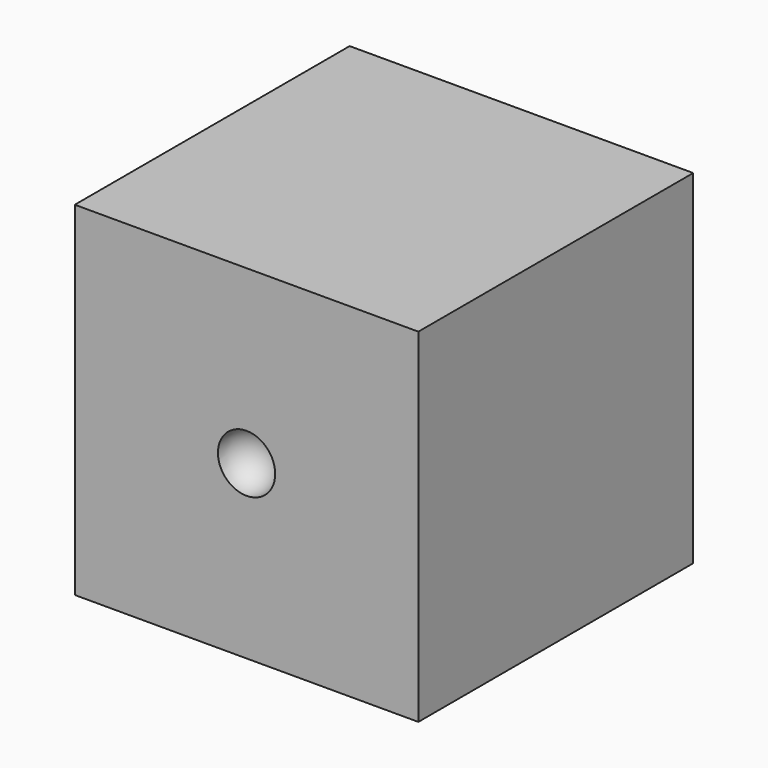
from build123d import *

# Parameters (mm, degrees)
F1_W     = 76.2
F1_H     = 76.2
F2_DEPTH = 76.2


with BuildPart() as f2:
    # F1 (on offset) → F2 (new body)
    with BuildSketch(Plane.XZ.offset(76.2)):
        with Locations((38.1, 38.1)):
            Rectangle(F1_W, F1_H)
    extrude(amount=F2_DEPTH)

    # F3 (on face) → F4 (revolve, cut)
    with BuildSketch(Plane.XZ.offset(152.4)):
        with BuildLine():
            ThreePointArc((38.1, 31.75), (44.45, 38.1), (38.1, 44.45))
            Line((38.1, 44.45), (38.1, 31.75))
        make_face()
    revolve(axis=Axis((38.1, -152.4, 38.1), (0, 0, -1)), mode=Mode.SUBTRACT)


solid = f2.part
